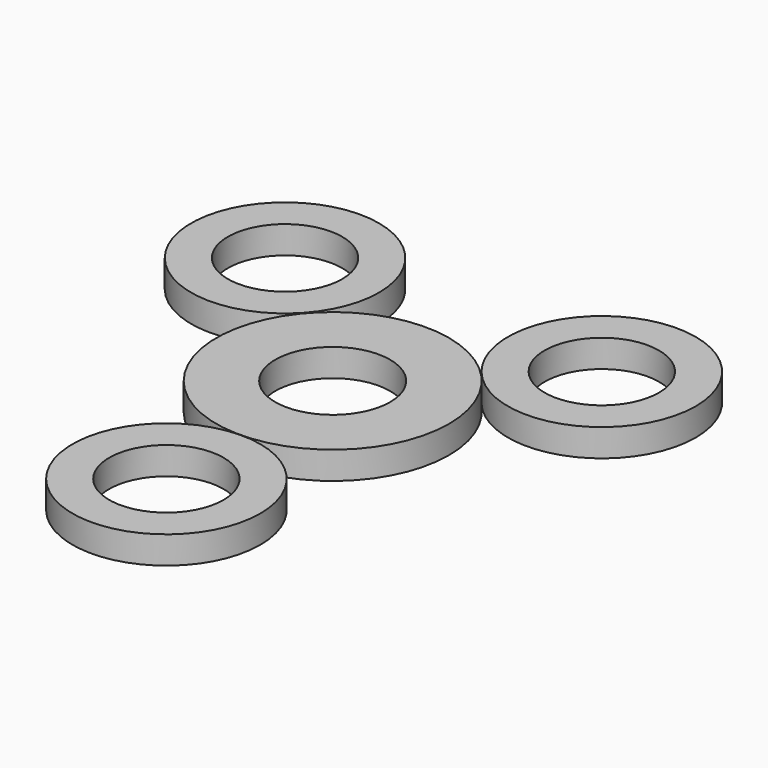
from build123d import *

# Parameters (mm, degrees)
F1_R     = 26.799926
F1_R_2   = 13.225888
F2_DEPTH = 6.35
F3_R     = 21.638205
F3_R_2   = 13.169907
F4_DEPTH = 6.35


with BuildPart() as f2:
    # F1 (on face) → F2 (new body)
    with BuildSketch(Plane.XY):
        Circle(F1_R)
        Circle(F1_R_2, mode=Mode.SUBTRACT)
    extrude(amount=F2_DEPTH)


with BuildPart() as f4:
    # F3 (on Top) → F4 (new body)
    with BuildSketch(Plane.XY):
        with Locations((-36.611721, 32.05758)):
            Circle(F3_R)
        with Locations((-36.611721, 32.05758)):
            Circle(F3_R_2, mode=Mode.SUBTRACT)
    extrude(amount=F4_DEPTH)


with BuildPart() as f5_1:
    # F5: copy of F4
    add(f4.part)


with BuildPart() as f7_1:
    # F7: copy of F4
    add(f4.part.moved(Location((72.136, 1.016, 0))))


with BuildPart() as f8_1:
    # F8: copy of F4
    add(f4.part.moved(Location((37.084, -80.518, 0))))


solid = Compound([f2.part, f4.part, f7_1.part, f8_1.part])
